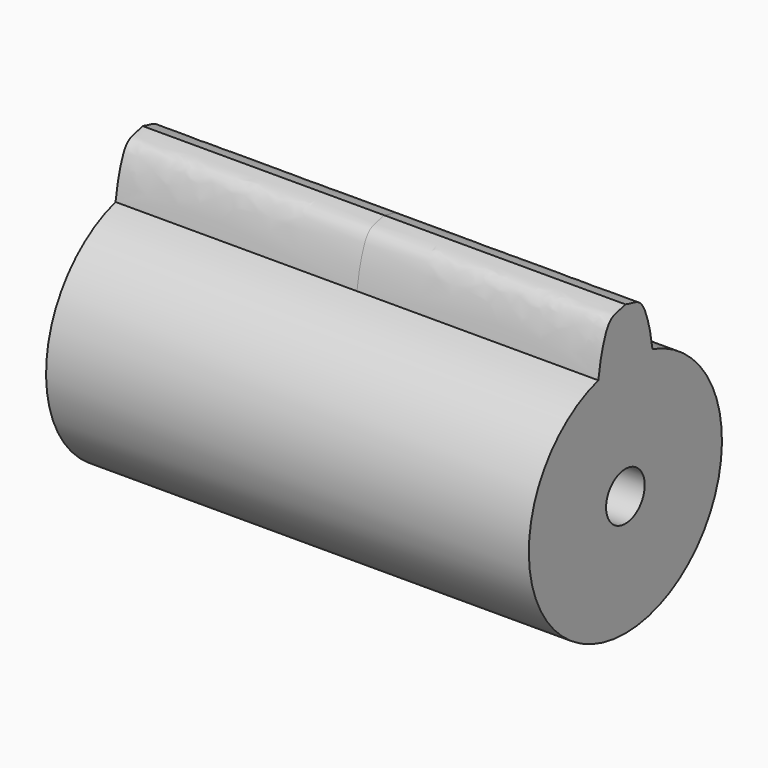
from build123d import *

# Parameters (mm, degrees)
F1_DEPTH      = 50
F1_DEPTH_BACK = 50
F2_R          = 5
F3_DEPTH      = 100


with BuildPart() as f1:
    # F0 (on Right) → F1 (new body, two sides)
    with BuildSketch(Plane.YZ) as f1_sk:
        with BuildLine():
            ThreePointArc((-7.0091162845, 23.9973392048), (-14.9962010671, -20.002848636), (25, 0))
            ThreePointArc((25, 0), (20.002848636, 14.9962010671), (7.0091162845, 23.9973392048))
            ThreePointArc((7.0091162845, 23.9973392048), (0, 25), (-7.0091162845, 23.9973392048))
        make_face()
        with BuildLine():
            ThreePointArc((-7.0091162845, 23.9973392048), (0, 25), (7.0091162845, 23.9973392048))
            add(Edge.make_bspline(
                [(0, 35), (1.2686513852, 34.5359756982), (3.9779252283, 34.5589596963), (5.6907384124, 30.4289227923), (6.5983760524, 26.8115835834), (6.8803246415, 24.8914644271), (7.0091162845, 23.9973392048)],
                knots=[0, 0, 0, 0, 0.2555511788, 0.5192821289, 0.7791264674, 1, 1, 1, 1], degree=3))
            add(Edge.make_bspline(
                [(0, 35), (-1.2686513852, 34.5359756982), (-3.9779252283, 34.5589596963), (-5.6907384124, 30.4289227923), (-6.5983760524, 26.8115835834), (-6.8803246415, 24.8914644271), (-7.0091162845, 23.9973392048)],
                knots=[0, 0, 0, 0, 0.2555511788, 0.5192821289, 0.7791264674, 1, 1, 1, 1], degree=3))
        make_face()
    extrude(amount=F1_DEPTH)
    extrude(f1_sk.sketch, amount=-F1_DEPTH_BACK)

    # F2 (on face) → F3 (cut, through all)
    with BuildSketch(Plane(origin=(-50, 0, 0), x_dir=(0, -1, 0), z_dir=(-1, 0, 0))):
        Circle(F2_R)
    extrude(amount=-F3_DEPTH, mode=Mode.SUBTRACT)


solid = f1.part
